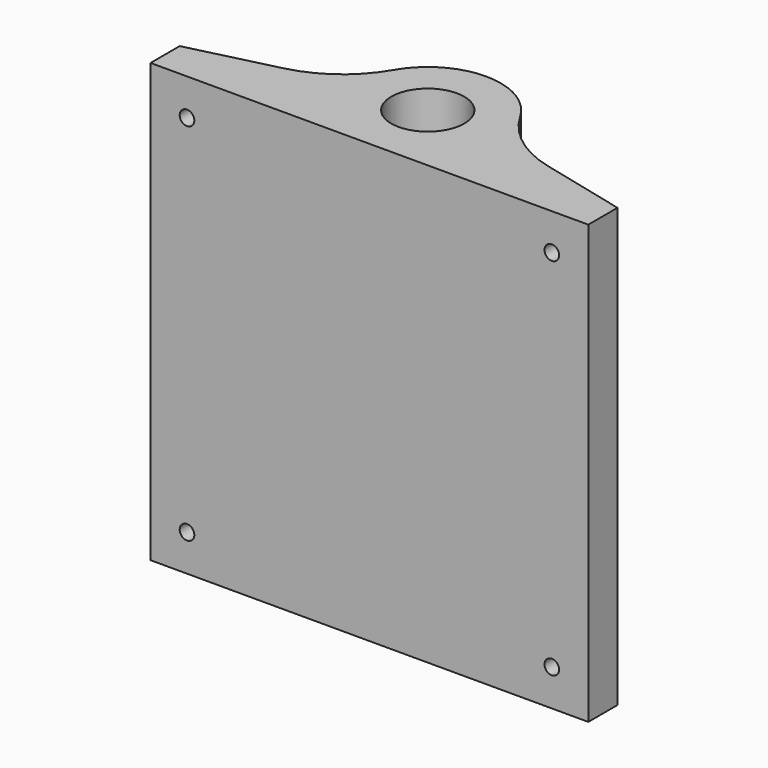
from build123d import *

# Parameters (mm, degrees)
F0_R          = 10
F1_DEPTH      = 60
F1_DEPTH_BACK = 60
F2_R          = 2
F3_DEPTH      = 25
F5_START      = -10
F4_R          = 6
F5_DEPTH      = 15


with BuildPart() as f1:
    # F0 (on Top) → F1 (new body, two sides)
    with BuildSketch(Plane.XY) as f1_sk:
        with BuildLine():
            Line((-60, 10), (-60, 0))
            Line((-60, 0), (0, 0))
            Line((0, 0), (60, 0))
            Line((60, 0), (60, 10))
            Line((60, 10), (36.1375661614, 15.867864057))
            ThreePointArc((36.1375661614, 15.867864057), (25.2854930612, 21.0118409528), (17.3205080757, 30))
            ThreePointArc((17.3205080757, 30), (10, 37.3205080757), (0, 40))
            ThreePointArc((0, 40), (-10, 37.3205080757), (-17.3205080757, 30))
            ThreePointArc((-17.3205080757, 30), (-25.2854930612, 21.0118409528), (-36.1375661614, 15.867864057))
            Line((-36.1375661614, 15.867864057), (-60, 10))
        make_face()
        with Locations((0, 20)):
            Circle(F0_R, mode=Mode.SUBTRACT)
    extrude(amount=F1_DEPTH)
    extrude(f1_sk.sketch, amount=-F1_DEPTH_BACK)

    # F2 (on face) → F3 (cut)
    with BuildSketch(Plane.XZ):
        with Locations((-50, 50)):
            Circle(F2_R)
        with Locations((50, 50)):
            Circle(F2_R)
        with Locations((-50, -50)):
            Circle(F2_R)
        with Locations((50, -50)):
            Circle(F2_R)
    extrude(amount=-F3_DEPTH, mode=Mode.SUBTRACT)

    # F4 (on face) → F5 (cut)
    with BuildSketch(Plane.XZ.offset(F5_START)):
        with Locations((-50, 50)):
            Circle(F4_R)
        with Locations((50, -50)):
            Circle(F4_R)
        with Locations((-50, -50)):
            Circle(F4_R)
        with Locations((50, 50)):
            Circle(F4_R)
    extrude(amount=-F5_DEPTH, mode=Mode.SUBTRACT)


solid = f1.part
